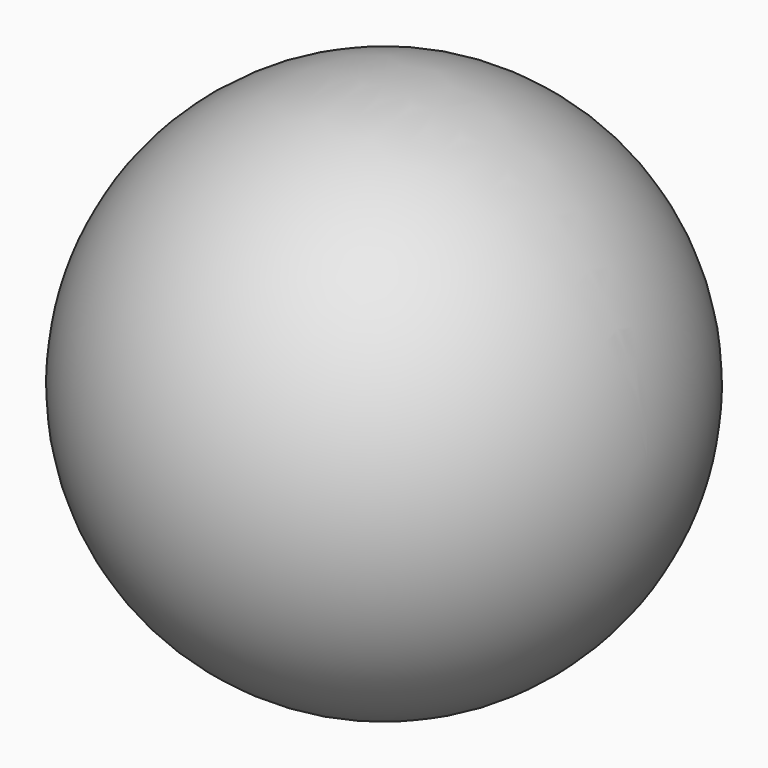
from build123d import *

# Parameters (mm, degrees)
F4_START = -28
F3_W     = 60
F3_H     = 60
F4_DEPTH = 72


with BuildPart() as f2:
    # F1 (on Front) → F2 (revolve)
    with BuildSketch(Plane.XZ):
        with BuildLine():
            Line((-30, 0), (30, 0))
            ThreePointArc((30, 0), (0, 30), (-30, 0))
        make_face()
    revolve(axis=Axis((0, 0, 0), (1, 0, 0)))

    # F3 (on Top) → F4 (cut)
    with BuildSketch(Plane.XY.offset(F4_START)):
        with Locations((1.9770637155, -0.5929265171)):
            Rectangle(F3_W, F3_H)
    extrude(amount=-F4_DEPTH, mode=Mode.SUBTRACT)


solid = f2.part
